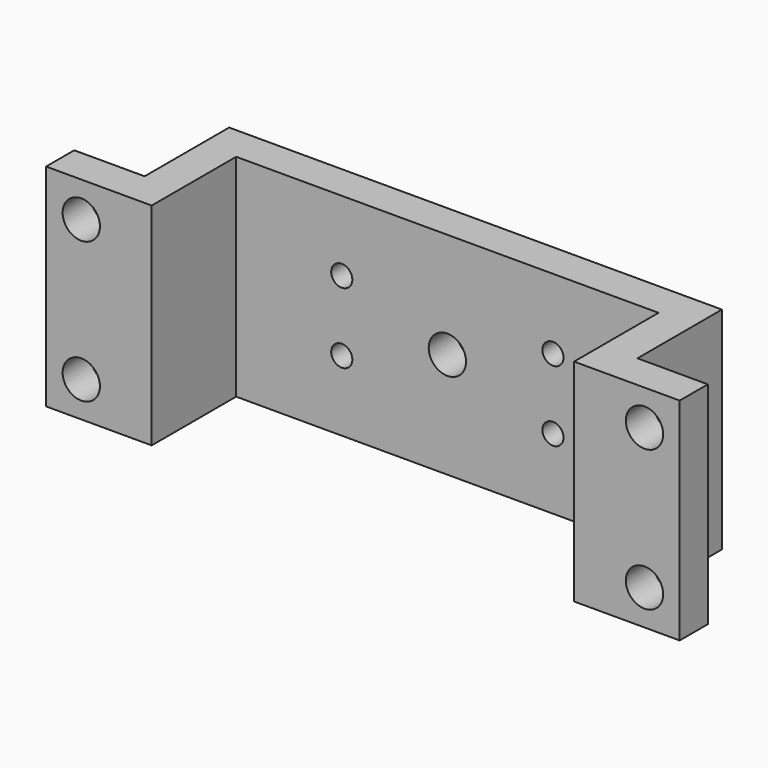
from build123d import *

# Parameters (mm, degrees)
PAD_DEPTH       = 30
SKETCH001_R     = 2.65
POCKET_DEPTH    = 5
SKETCH002_R     = 2.65
SKETCH002_R_2   = 1.5
POCKET001_DEPTH = 5


with BuildPart() as part:
    # Sketch → Pad (new body)
    with BuildSketch(Plane.XY):
        Polygon((-45, -10), (-30, -10), (-30, 5), (30, 5), (30, -10), (45, -10), (45, -5), (35, -5), (35, 10), (-35, 10), (-35, -5), (-45, -5), align=None)
    extrude(amount=PAD_DEPTH)

    # Sketch001 (on Face11 of Pad) → Pocket (cut)
    with BuildSketch(Plane(origin=(0, -5, 0), x_dir=(-1, 0, 0), z_dir=(0, 1, 0))):
        with Locations((-40, 25)):
            Circle(SKETCH001_R)
        with Locations((-40, 5)):
            Circle(SKETCH001_R)
        with Locations((40, 25)):
            Circle(SKETCH001_R)
        with Locations((40, 5)):
            Circle(SKETCH001_R)
    extrude(amount=-POCKET_DEPTH, mode=Mode.SUBTRACT)

    # Sketch002 (on Face15 of Pocket) → Pocket001 (cut)
    with BuildSketch(Plane(origin=(0, 10, 0), x_dir=(-1, 0, 0), z_dir=(0, 1, 0))):
        with Locations((0, 15)):
            Circle(SKETCH002_R)
        with Locations((-15, 20)):
            Circle(SKETCH002_R_2)
        with Locations((-15, 10)):
            Circle(SKETCH002_R_2)
        with Locations((15, 20)):
            Circle(SKETCH002_R_2)
        with Locations((15, 10)):
            Circle(SKETCH002_R_2)
    extrude(amount=-POCKET001_DEPTH, mode=Mode.SUBTRACT)


solid = part.part
